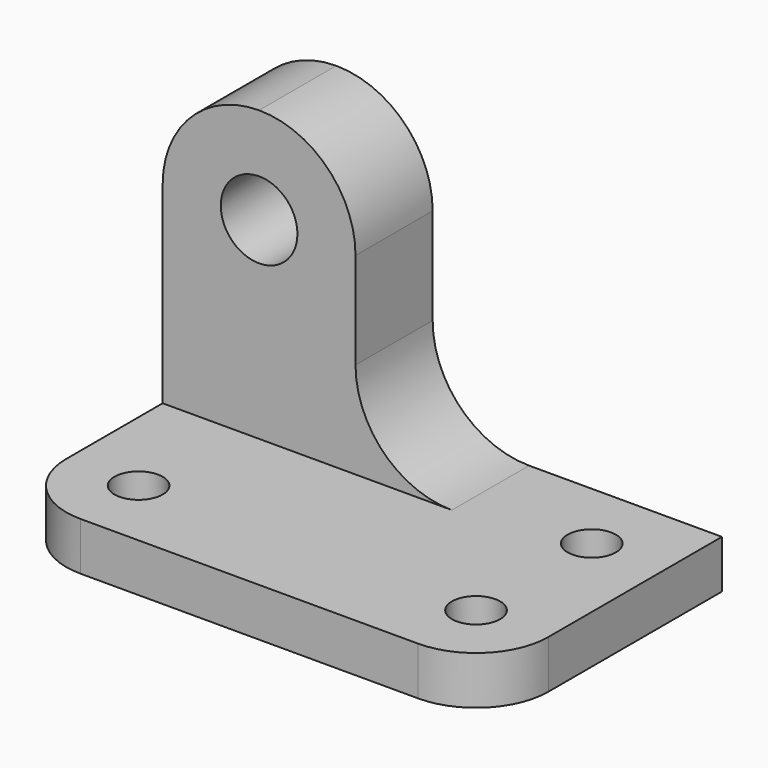
from build123d import *

# Parameters (mm, degrees)
F0_W     = 63.5
F0_H     = 38.1
F1_DEPTH = 6.35
F2_R     = 3.175
F3_DEPTH = 25.4
F4_W     = 38.1
F4_H     = 38.1
F5_DEPTH = 12.7
F6_R     = 5.0483278961
F7_DEPTH = 25.4


with BuildPart() as f1:
    # F0 (on Top) → F1 (new body)
    with BuildSketch(Plane.XY):
        with Locations((31.75, 19.05)):
            Rectangle(F0_W, F0_H)
    extrude(amount=F1_DEPTH)

    # F2 (on face) → F3 (cut)
    with BuildSketch(Plane.XY.offset(6.35)):
        with Locations((53.975, 28.575)):
            Circle(F2_R)
        with Locations((53.975, 9.525)):
            Circle(F2_R)
        with Locations((9.525, 9.525)):
            Circle(F2_R)
        with BuildLine():
            ThreePointArc((9.525, 0), (2.7898079092, 2.7898079092), (0, 9.525))
            Line((0, 9.525), (0, 0))
            Line((0, 0), (9.525, 0))
        make_face()
        with BuildLine():
            ThreePointArc((63.5, 9.525), (60.7101920908, 2.7898079092), (53.975, 0))
            Line((53.975, 0), (63.5, 0))
            Line((63.5, 0), (63.5, 9.525))
        make_face()
    extrude(amount=-F3_DEPTH, mode=Mode.SUBTRACT)


with BuildPart() as f5:
    # F4 (on face) → F5 (new body)
    with BuildSketch(Plane(origin=(0, 38.1, 0), x_dir=(-1, 0, 0), z_dir=(0, 1, 0))):
        with Locations((-19.05, 25.4)):
            Rectangle(F4_W, F4_H)
    extrude(amount=-F5_DEPTH)

    # F6 (on face) → F7 (cut)
    with BuildSketch(Plane.XZ.offset(-25.4)):
        with BuildLine():
            Line((38.1, 44.45), (12.7, 44.45))
            ThreePointArc((12.7, 44.45), (21.6802561211, 40.7302561211), (25.4, 31.75))
            Line((25.4, 31.75), (25.4, 19.05))
            ThreePointArc((25.4, 19.05), (29.1197438789, 10.0697438789), (38.1, 6.35))
            Line((38.1, 6.35), (38.1, 44.45))
        make_face()
        with BuildLine():
            ThreePointArc((0, 31.75), (3.7197438789, 40.7302561211), (12.7, 44.45))
            Line((12.7, 44.45), (0, 44.45))
            Line((0, 44.45), (0, 31.75))
        make_face()
        with Locations((12.7, 31.75)):
            Circle(F6_R)
    extrude(amount=-F7_DEPTH, mode=Mode.SUBTRACT)


solid = Compound([f1.part, f5.part])
